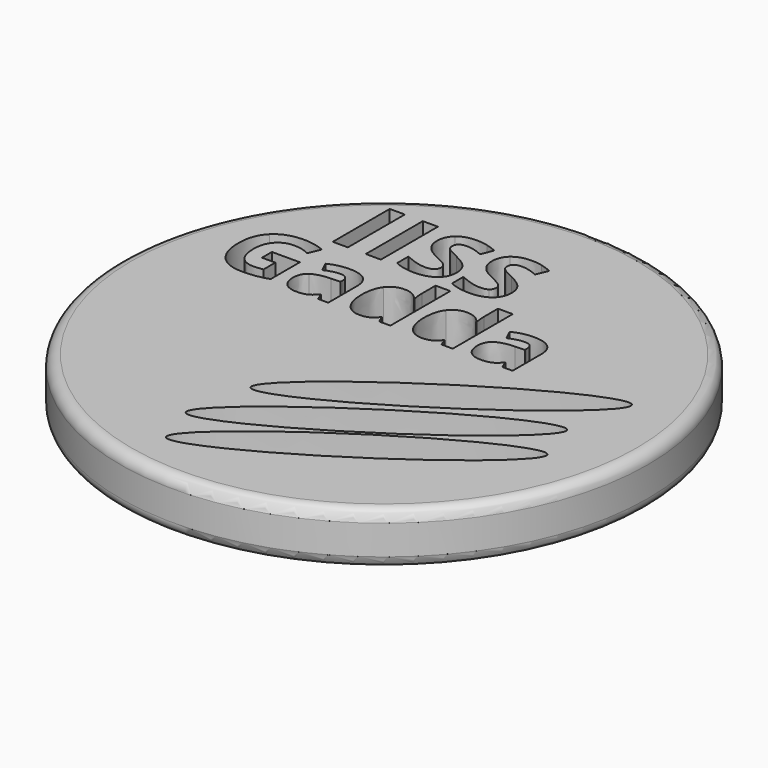
from build123d import *

# Parameters (mm, degrees)
F1_R     = 11.825
F1_W     = 0.6770305677
F1_H     = 3.1923144105
F2_DEPTH = 2.33
F3_R     = 0.5


with BuildPart() as f2:
    # F1 (on Top) → F2 (new body)
    with BuildSketch(Plane.XY):
        Circle(F1_R)
        with BuildLine():
            add(Edge.make_bspline(
                [(9.1985218048, -2.3484245142), (8.3589656473, -1.0553149177), (0.34385052, -7.1782551265), (-7.6712646073, -13.3011953353), (1.1834066774, -8.4713647229), (10.0380779622, -3.6415341106), (9.1985218048, -2.3484245142)],
                knots=[0, 0, 0, 2.0943951024, 2.0943951024, 4.1887902048, 4.1887902048, 6.2831853072, 6.2831853072, 6.2831853072], degree=2, weights=[1, 0.5, 1, 0.5, 1, 0.5, 1]))
        make_face(mode=Mode.SUBTRACT)
        with BuildLine():
            add(Edge.make_bspline(
                [(8.5690483272, -0.460004547), (7.7294921697, 0.8331050495), (-0.2856229576, -5.2898351593), (-8.3007380849, -11.4127753681), (0.5539331998, -6.5829447558), (9.4086044846, -1.7531141435), (8.5690483272, -0.460004547)],
                knots=[0, 0, 0, 2.0943951024, 2.0943951024, 4.1887902048, 4.1887902048, 6.2831853072, 6.2831853072, 6.2831853072], degree=2, weights=[1, 0.5, 1, 0.5, 1, 0.5, 1]))
        make_face(mode=Mode.SUBTRACT)
        with BuildLine():
            add(Edge.make_bspline(
                [(9.1555342024, 2.434908527), (8.315978045, 3.7280181235), (0.3008629177, -2.3949220853), (-7.7142522097, -8.5178622941), (1.1404190751, -3.6880316817), (9.9950903599, 1.1417989306), (9.1555342024, 2.434908527)],
                knots=[0, 0, 0, 2.0943951024, 2.0943951024, 4.1887902048, 4.1887902048, 6.2831853072, 6.2831853072, 6.2831853072], degree=2, weights=[1, 0.5, 1, 0.5, 1, 0.5, 1]))
        make_face(mode=Mode.SUBTRACT)
        with BuildLine():
            Line((-7.9164319059, 3.0568359855), (-7.9164319059, 3.6137316564))
            Line((-7.9164319059, 3.6137316564), (-6.6653143702, 3.6137316564))
            Line((-6.6653143702, 3.6137316564), (-6.6653143702, 1.9789288754))
            add(Edge.make_bspline(
                [(-6.6653143702, 1.9789288754), (-6.9696402573, 1.8795571572), (-7.2380819127, 1.8395324373)],
                knots=[0, 0, 0, 1, 1, 1], degree=2))
            add(Edge.make_bspline(
                [(-7.2380819127, 1.8395324373), (-7.5065235682, 1.7995077175), (-7.7866966071, 1.7995077175)],
                knots=[0, 0, 0, 1, 1, 1], degree=2))
            add(Edge.make_bspline(
                [(-7.7866966071, 1.7995077175), (-8.5002407504, 1.7995077175), (-8.8766801413, 2.2190771944)],
                knots=[0, 0, 0, 1, 1, 1], degree=2))
            add(Edge.make_bspline(
                [(-8.8766801413, 2.2190771944), (-9.2531195322, 2.6386466713), (-9.2531195322, 3.4239592778)],
                knots=[0, 0, 0, 1, 1, 1], degree=2))
            add(Edge.make_bspline(
                [(-9.2531195322, 3.4239592778), (-9.2531195322, 4.1871892803), (-8.8162980209, 4.6140046117)],
                knots=[0, 0, 0, 1, 1, 1], degree=2))
            add(Edge.make_bspline(
                [(-8.8162980209, 4.6140046117), (-8.3794765095, 5.0408199431), (-7.6058952864, 5.0408199431)],
                knots=[0, 0, 0, 1, 1, 1], degree=2))
            add(Edge.make_bspline(
                [(-7.6058952864, 5.0408199431), (-7.1200779973, 5.0408199431), (-6.6694548585, 4.8469070763)],
                knots=[0, 0, 0, 1, 1, 1], degree=2))
            Line((-6.6694548585, 4.8469070763), (-6.8916610617, 4.3120940095))
            add(Edge.make_bspline(
                [(-6.8916610617, 4.3120940095), (-7.23670175, 4.4846143536), (-7.6100357747, 4.4846143536)],
                knots=[0, 0, 0, 1, 1, 1], degree=2))
            add(Edge.make_bspline(
                [(-7.6100357747, 4.4846143536), (-8.0434068792, 4.4846143536), (-8.3042576395, 4.1934000127)],
                knots=[0, 0, 0, 1, 1, 1], degree=2))
            add(Edge.make_bspline(
                [(-8.3042576395, 4.1934000127), (-8.5651083998, 3.9021856718), (-8.5651083998, 3.4108477317)],
                knots=[0, 0, 0, 1, 1, 1], degree=2))
            add(Edge.make_bspline(
                [(-8.5651083998, 3.4108477317), (-8.5651083998, 2.8974271875), (-8.3549786207, 2.6269152879)],
                knots=[0, 0, 0, 1, 1, 1], degree=2))
            add(Edge.make_bspline(
                [(-8.3549786207, 2.6269152879), (-8.1448488415, 2.3564033883), (-7.7439115617, 2.3564033883)],
                knots=[0, 0, 0, 1, 1, 1], degree=2))
            add(Edge.make_bspline(
                [(-7.7439115617, 2.3564033883), (-7.5341268233, 2.3564033883), (-7.3188214338, 2.3991884337)],
                knots=[0, 0, 0, 1, 1, 1], degree=2))
            Line((-7.3188214338, 2.3991884337), (-7.3188214338, 3.0568359855))
            Line((-7.3188214338, 3.0568359855), (-7.9164319059, 3.0568359855))
        make_face(mode=Mode.SUBTRACT)
        with BuildLine():
            Line((-3.9767573272, 1.8429828442), (-4.4356614426, 1.8429828442))
            Line((-4.4356614426, 1.8429828442), (-4.5633264973, 2.1707714981))
            Line((-4.5633264973, 2.1707714981), (-4.5805785317, 2.1707714981))
            add(Edge.make_bspline(
                [(-4.5805785317, 2.1707714981), (-4.7461980621, 1.961676841), (-4.9221688131, 1.8805922792)],
                knots=[0, 0, 0, 1, 1, 1], degree=2))
            add(Edge.make_bspline(
                [(-4.9221688131, 1.8805922792), (-5.0981395641, 1.7995077175), (-5.3803828471, 1.7995077175)],
                knots=[0, 0, 0, 1, 1, 1], degree=2))
            add(Edge.make_bspline(
                [(-5.3803828471, 1.7995077175), (-5.7274937795, 1.7995077175), (-5.9269272973, 1.9982511539)],
                knots=[0, 0, 0, 1, 1, 1], degree=2))
            add(Edge.make_bspline(
                [(-5.9269272973, 1.9982511539), (-6.1263608151, 2.1969945904), (-6.1263608151, 2.5634278013)],
                knots=[0, 0, 0, 1, 1, 1], degree=2))
            add(Edge.make_bspline(
                [(-6.1263608151, 2.5634278013), (-6.1263608151, 2.9471130467), (-5.8579191597, 3.1292945301)],
                knots=[0, 0, 0, 1, 1, 1], degree=2))
            add(Edge.make_bspline(
                [(-5.8579191597, 3.1292945301), (-5.5894775042, 3.3114760135), (-5.048453705, 3.330798292)],
                knots=[0, 0, 0, 1, 1, 1], degree=2))
            Line((-5.048453705, 3.330798292), (-4.6295743094, 3.3439098382))
            Line((-4.6295743094, 3.3439098382), (-4.6295743094, 3.4494922888))
            add(Edge.make_bspline(
                [(-4.6295743094, 3.4494922888), (-4.6295743094, 3.8159254997), (-5.0049785783, 3.8159254997)],
                knots=[0, 0, 0, 1, 1, 1], degree=2))
            add(Edge.make_bspline(
                [(-5.0049785783, 3.8159254997), (-5.294122675, 3.8159254997), (-5.6847087342, 3.6413349115)],
                knots=[0, 0, 0, 1, 1, 1], degree=2))
            Line((-5.6847087342, 3.6413349115), (-5.9020843678, 4.0857473179))
            add(Edge.make_bspline(
                [(-5.9020843678, 4.0857473179), (-5.4859652977, 4.3038130329), (-4.9794455673, 4.3038130329)],
                knots=[0, 0, 0, 1, 1, 1], degree=2))
            add(Edge.make_bspline(
                [(-4.9794455673, 4.3038130329), (-4.4943183596, 4.3038130329), (-4.2355378434, 4.092303091)],
                knots=[0, 0, 0, 1, 1, 1], degree=2))
            add(Edge.make_bspline(
                [(-4.2355378434, 4.092303091), (-3.9767573272, 3.8807931491), (-3.9767573272, 3.4494922888)],
                knots=[0, 0, 0, 1, 1, 1], degree=2))
            Line((-3.9767573272, 3.4494922888), (-3.9767573272, 1.8429828442))
        make_face(mode=Mode.SUBTRACT)
        with BuildLine():
            add(Edge.make_bspline(
                [(-1.8519967689, 2.1555897078), (-2.0762732162, 1.7995077175), (-2.535867413, 1.7995077175)],
                knots=[0, 0, 0, 1, 1, 1], degree=2))
            add(Edge.make_bspline(
                [(-2.535867413, 1.7995077175), (-2.9602674596, 1.7995077175), (-3.2028310634, 2.1297116562)],
                knots=[0, 0, 0, 1, 1, 1], degree=2))
            add(Edge.make_bspline(
                [(-3.2028310634, 2.1297116562), (-3.4453946673, 2.4599155948), (-3.4453946673, 3.0444145208)],
                knots=[0, 0, 0, 1, 1, 1], degree=2))
            add(Edge.make_bspline(
                [(-3.4453946673, 3.0444145208), (-3.4453946673, 3.6371944232), (-3.1986905752, 3.9680884432)],
                knots=[0, 0, 0, 1, 1, 1], degree=2))
            add(Edge.make_bspline(
                [(-3.1986905752, 3.9680884432), (-2.9519864831, 4.2989824633), (-2.5186153786, 4.2989824633)],
                knots=[0, 0, 0, 1, 1, 1], degree=2))
            add(Edge.make_bspline(
                [(-2.5186153786, 4.2989824633), (-2.0631616701, 4.2989824633), (-1.8237034324, 3.9456607985)],
                knots=[0, 0, 0, 1, 1, 1], degree=2))
            Line((-1.8237034324, 3.9456607985), (-1.8023109097, 3.9456607985))
            add(Edge.make_bspline(
                [(-1.8023109097, 3.9456607985), (-1.8519967689, 4.2154826167), (-1.8519967689, 4.426647518)],
                knots=[0, 0, 0, 1, 1, 1], degree=2))
            Line((-1.8519967689, 4.426647518), (-1.8519967689, 5.1988485783))
            Line((-1.8519967689, 5.1988485783), (-1.1922789729, 5.1988485783))
            Line((-1.1922789729, 5.1988485783), (-1.1922789729, 1.8429828442))
            Line((-1.1922789729, 1.8429828442), (-1.6967284591, 1.8429828442))
            Line((-1.6967284591, 1.8429828442), (-1.8237034324, 2.1555897078))
            Line((-1.8237034324, 2.1555897078), (-1.8519967689, 2.1555897078))
        make_face(mode=Mode.SUBTRACT)
        with Locations((-6.3956749816, 7.1383528025)):
            Rectangle(F1_W, F1_H, mode=Mode.SUBTRACT)
        with Locations((-4.9151509642, 7.1383528025)):
            Rectangle(F1_W, F1_H, mode=Mode.SUBTRACT)
        with BuildLine():
            add(Edge.make_bspline(
                [(-2.054714283, 6.9559947239), (-1.8887754183, 6.7411475624), (-1.8887754183, 6.4288331519)],
                knots=[0, 0, 0, 1, 1, 1], degree=2))
            add(Edge.make_bspline(
                [(-1.8887754183, 6.4288331519), (-1.8887754183, 5.9963440689), (-2.2000417939, 5.7472610995)],
                knots=[0, 0, 0, 1, 1, 1], degree=2))
            add(Edge.make_bspline(
                [(-2.2000417939, 5.7472610995), (-2.5113081694, 5.4981781301), (-3.0653693048, 5.4981781301)],
                knots=[0, 0, 0, 1, 1, 1], degree=2))
            add(Edge.make_bspline(
                [(-3.0653693048, 5.4981781301), (-3.5768103528, 5.4981781301), (-3.9694741083, 5.691016558)],
                knots=[0, 0, 0, 1, 1, 1], degree=2))
            Line((-3.9694741083, 5.691016558), (-3.9694741083, 6.3198375187))
            add(Edge.make_bspline(
                [(-3.9694741083, 6.3198375187), (-3.6466793485, 6.1752086977), (-3.4227492175, 6.1165187414)],
                knots=[0, 0, 0, 1, 1, 1], degree=2))
            add(Edge.make_bspline(
                [(-3.4227492175, 6.1165187414), (-3.1988190865, 6.0578287851), (-3.0129675581, 6.0578287851)],
                knots=[0, 0, 0, 1, 1, 1], degree=2))
            add(Edge.make_bspline(
                [(-3.0129675581, 6.0578287851), (-2.790784152, 6.0578287851), (-2.6716575144, 6.1427196148)],
                knots=[0, 0, 0, 1, 1, 1], degree=2))
            add(Edge.make_bspline(
                [(-2.6716575144, 6.1427196148), (-2.5525308768, 6.2276104445), (-2.5525308768, 6.3959947239)],
                knots=[0, 0, 0, 1, 1, 1], degree=2))
            add(Edge.make_bspline(
                [(-2.5525308768, 6.3959947239), (-2.5525308768, 6.4896191781), (-2.6049326236, 6.5629816235)],
                knots=[0, 0, 0, 1, 1, 1], degree=2))
            add(Edge.make_bspline(
                [(-2.6049326236, 6.5629816235), (-2.6573343703, 6.6363440689), (-2.7589937589, 6.7037676497)],
                knots=[0, 0, 0, 1, 1, 1], degree=2))
            add(Edge.make_bspline(
                [(-2.7589937589, 6.7037676497), (-2.8606531476, 6.7711912305), (-3.1729675581, 6.9200121912)],
                knots=[0, 0, 0, 1, 1, 1], degree=2))
            add(Edge.make_bspline(
                [(-3.1729675581, 6.9200121912), (-3.4650199598, 7.0576541126), (-3.6113955057, 7.1841169947)],
                knots=[0, 0, 0, 1, 1, 1], degree=2))
            add(Edge.make_bspline(
                [(-3.6113955057, 7.1841169947), (-3.7577710515, 7.3105798768), (-3.8451072961, 7.4789641563)],
                knots=[0, 0, 0, 1, 1, 1], degree=2))
            add(Edge.make_bspline(
                [(-3.8451072961, 7.4789641563), (-3.9324435406, 7.6473484357), (-3.9324435406, 7.8716279117)],
                knots=[0, 0, 0, 1, 1, 1], degree=2))
            add(Edge.make_bspline(
                [(-3.9324435406, 7.8716279117), (-3.9324435406, 8.2957327152), (-3.6452819685, 8.5378287851)],
                knots=[0, 0, 0, 1, 1, 1], degree=2))
            add(Edge.make_bspline(
                [(-3.6452819685, 8.5378287851), (-3.3581203965, 8.7799248549), (-2.8515701782, 8.7799248549)],
                knots=[0, 0, 0, 1, 1, 1], degree=2))
            add(Edge.make_bspline(
                [(-2.8515701782, 8.7799248549), (-2.6028365537, 8.7799248549), (-2.3768103528, 8.7212348986)],
                knots=[0, 0, 0, 1, 1, 1], degree=2))
            add(Edge.make_bspline(
                [(-2.3768103528, 8.7212348986), (-2.150784152, 8.6625449423), (-1.9041465974, 8.555645379)],
                knots=[0, 0, 0, 1, 1, 1], degree=2))
            Line((-1.9041465974, 8.555645379), (-2.1221378637, 8.0288331519))
            add(Edge.make_bspline(
                [(-2.1221378637, 8.0288331519), (-2.3778583878, 8.1336366453), (-2.5448452873, 8.1752086977)],
                knots=[0, 0, 0, 1, 1, 1], degree=2))
            add(Edge.make_bspline(
                [(-2.5448452873, 8.1752086977), (-2.7118321869, 8.2167807501), (-2.8732295668, 8.2167807501)],
                knots=[0, 0, 0, 1, 1, 1], degree=2))
            add(Edge.make_bspline(
                [(-2.8732295668, 8.2167807501), (-3.0653693048, 8.2167807501), (-3.1680767284, 8.1273484357)],
                knots=[0, 0, 0, 1, 1, 1], degree=2))
            add(Edge.make_bspline(
                [(-3.1680767284, 8.1273484357), (-3.270784152, 8.0379161213), (-3.270784152, 7.8939859903)],
                knots=[0, 0, 0, 1, 1, 1], degree=2))
            add(Edge.make_bspline(
                [(-3.270784152, 7.8939859903), (-3.270784152, 7.8045536759), (-3.2292120996, 7.7378287851)],
                knots=[0, 0, 0, 1, 1, 1], degree=2))
            add(Edge.make_bspline(
                [(-3.2292120996, 7.7378287851), (-3.1876400471, 7.6711038942), (-3.0971596978, 7.6089204881)],
                knots=[0, 0, 0, 1, 1, 1], degree=2))
            add(Edge.make_bspline(
                [(-3.0971596978, 7.6089204881), (-3.0066793485, 7.546737082), (-2.6685134096, 7.3853397021)],
                knots=[0, 0, 0, 1, 1, 1], degree=2))
            add(Edge.make_bspline(
                [(-2.6685134096, 7.3853397021), (-2.2206531476, 7.1708418855), (-2.054714283, 6.9559947239)],
                knots=[0, 0, 0, 1, 1, 1], degree=2))
        make_face(mode=Mode.SUBTRACT)
        with BuildLine():
            add(Edge.make_bspline(
                [(0.4081678131, 6.9559947239), (0.5741066777, 6.7411475624), (0.5741066777, 6.4288331519)],
                knots=[0, 0, 0, 1, 1, 1], degree=2))
            add(Edge.make_bspline(
                [(0.5741066777, 6.4288331519), (0.5741066777, 5.9963440689), (0.2628403022, 5.7472610995)],
                knots=[0, 0, 0, 1, 1, 1], degree=2))
            add(Edge.make_bspline(
                [(0.2628403022, 5.7472610995), (-0.0484260733, 5.4981781301), (-0.6024872087, 5.4981781301)],
                knots=[0, 0, 0, 1, 1, 1], degree=2))
            add(Edge.make_bspline(
                [(-0.6024872087, 5.4981781301), (-1.1139282568, 5.4981781301), (-1.5065920122, 5.691016558)],
                knots=[0, 0, 0, 1, 1, 1], degree=2))
            Line((-1.5065920122, 5.691016558), (-1.5065920122, 6.3198375187))
            add(Edge.make_bspline(
                [(-1.5065920122, 6.3198375187), (-1.1837972524, 6.1752086977), (-0.9598671214, 6.1165187414)],
                knots=[0, 0, 0, 1, 1, 1], degree=2))
            add(Edge.make_bspline(
                [(-0.9598671214, 6.1165187414), (-0.7359369904, 6.0578287851), (-0.550085462, 6.0578287851)],
                knots=[0, 0, 0, 1, 1, 1], degree=2))
            add(Edge.make_bspline(
                [(-0.550085462, 6.0578287851), (-0.3279020559, 6.0578287851), (-0.2087754183, 6.1427196148)],
                knots=[0, 0, 0, 1, 1, 1], degree=2))
            add(Edge.make_bspline(
                [(-0.2087754183, 6.1427196148), (-0.0896487808, 6.2276104445), (-0.0896487808, 6.3959947239)],
                knots=[0, 0, 0, 1, 1, 1], degree=2))
            add(Edge.make_bspline(
                [(-0.0896487808, 6.3959947239), (-0.0896487808, 6.4896191781), (-0.1420505275, 6.5629816235)],
                knots=[0, 0, 0, 1, 1, 1], degree=2))
            add(Edge.make_bspline(
                [(-0.1420505275, 6.5629816235), (-0.1944522742, 6.6363440689), (-0.2961116629, 6.7037676497)],
                knots=[0, 0, 0, 1, 1, 1], degree=2))
            add(Edge.make_bspline(
                [(-0.2961116629, 6.7037676497), (-0.3977710515, 6.7711912305), (-0.710085462, 6.9200121912)],
                knots=[0, 0, 0, 1, 1, 1], degree=2))
            add(Edge.make_bspline(
                [(-0.710085462, 6.9200121912), (-1.0021378637, 7.0576541126), (-1.1485134096, 7.1841169947)],
                knots=[0, 0, 0, 1, 1, 1], degree=2))
            add(Edge.make_bspline(
                [(-1.1485134096, 7.1841169947), (-1.2948889554, 7.3105798768), (-1.3822252, 7.4789641563)],
                knots=[0, 0, 0, 1, 1, 1], degree=2))
            add(Edge.make_bspline(
                [(-1.3822252, 7.4789641563), (-1.4695614445, 7.6473484357), (-1.4695614445, 7.8716279117)],
                knots=[0, 0, 0, 1, 1, 1], degree=2))
            add(Edge.make_bspline(
                [(-1.4695614445, 7.8716279117), (-1.4695614445, 8.2957327152), (-1.1823998725, 8.5378287851)],
                knots=[0, 0, 0, 1, 1, 1], degree=2))
            add(Edge.make_bspline(
                [(-1.1823998725, 8.5378287851), (-0.8952383004, 8.7799248549), (-0.3886880821, 8.7799248549)],
                knots=[0, 0, 0, 1, 1, 1], degree=2))
            add(Edge.make_bspline(
                [(-0.3886880821, 8.7799248549), (-0.1399544576, 8.7799248549), (0.0860717432, 8.7212348986)],
                knots=[0, 0, 0, 1, 1, 1], degree=2))
            add(Edge.make_bspline(
                [(0.0860717432, 8.7212348986), (0.3120979441, 8.6625449423), (0.5587354987, 8.555645379)],
                knots=[0, 0, 0, 1, 1, 1], degree=2))
            Line((0.5587354987, 8.555645379), (0.3407442323, 8.0288331519))
            add(Edge.make_bspline(
                [(0.3407442323, 8.0288331519), (0.0850237083, 8.1336366453), (-0.0819631913, 8.1752086977)],
                knots=[0, 0, 0, 1, 1, 1], degree=2))
            add(Edge.make_bspline(
                [(-0.0819631913, 8.1752086977), (-0.2489500908, 8.2167807501), (-0.4103474707, 8.2167807501)],
                knots=[0, 0, 0, 1, 1, 1], degree=2))
            add(Edge.make_bspline(
                [(-0.4103474707, 8.2167807501), (-0.6024872087, 8.2167807501), (-0.7051946323, 8.1273484357)],
                knots=[0, 0, 0, 1, 1, 1], degree=2))
            add(Edge.make_bspline(
                [(-0.7051946323, 8.1273484357), (-0.8079020559, 8.0379161213), (-0.8079020559, 7.8939859903)],
                knots=[0, 0, 0, 1, 1, 1], degree=2))
            add(Edge.make_bspline(
                [(-0.8079020559, 7.8939859903), (-0.8079020559, 7.8045536759), (-0.7663300035, 7.7378287851)],
                knots=[0, 0, 0, 1, 1, 1], degree=2))
            add(Edge.make_bspline(
                [(-0.7663300035, 7.7378287851), (-0.7247579511, 7.6711038942), (-0.6342776017, 7.6089204881)],
                knots=[0, 0, 0, 1, 1, 1], degree=2))
            add(Edge.make_bspline(
                [(-0.6342776017, 7.6089204881), (-0.5437972524, 7.546737082), (-0.2056313135, 7.3853397021)],
                knots=[0, 0, 0, 1, 1, 1], degree=2))
            add(Edge.make_bspline(
                [(-0.2056313135, 7.3853397021), (0.2422289485, 7.1708418855), (0.4081678131, 6.9559947239)],
                knots=[0, 0, 0, 1, 1, 1], degree=2))
        make_face(mode=Mode.SUBTRACT)
        with BuildLine():
            add(Edge.make_bspline(
                [(0.9428328061, 2.1555897078), (0.7185563587, 1.7995077175), (0.258962162, 1.7995077175)],
                knots=[0, 0, 0, 1, 1, 1], degree=2))
            add(Edge.make_bspline(
                [(0.258962162, 1.7995077175), (-0.1654378846, 1.7995077175), (-0.4080014885, 2.1297116562)],
                knots=[0, 0, 0, 1, 1, 1], degree=2))
            add(Edge.make_bspline(
                [(-0.4080014885, 2.1297116562), (-0.6505650923, 2.4599155948), (-0.6505650923, 3.0444145208)],
                knots=[0, 0, 0, 1, 1, 1], degree=2))
            add(Edge.make_bspline(
                [(-0.6505650923, 3.0444145208), (-0.6505650923, 3.6371944232), (-0.4038610002, 3.9680884432)],
                knots=[0, 0, 0, 1, 1, 1], degree=2))
            add(Edge.make_bspline(
                [(-0.4038610002, 3.9680884432), (-0.1571569081, 4.2989824633), (0.2762141964, 4.2989824633)],
                knots=[0, 0, 0, 1, 1, 1], degree=2))
            add(Edge.make_bspline(
                [(0.2762141964, 4.2989824633), (0.7316679049, 4.2989824633), (0.9711261426, 3.9456607985)],
                knots=[0, 0, 0, 1, 1, 1], degree=2))
            Line((0.9711261426, 3.9456607985), (0.9925186652, 3.9456607985))
            add(Edge.make_bspline(
                [(0.9925186652, 3.9456607985), (0.9428328061, 4.2154826167), (0.9428328061, 4.426647518)],
                knots=[0, 0, 0, 1, 1, 1], degree=2))
            Line((0.9428328061, 4.426647518), (0.9428328061, 5.1988485783))
            Line((0.9428328061, 5.1988485783), (1.6025506021, 5.1988485783))
            Line((1.6025506021, 5.1988485783), (1.6025506021, 1.8429828442))
            Line((1.6025506021, 1.8429828442), (1.0981011158, 1.8429828442))
            Line((1.0981011158, 1.8429828442), (0.9711261426, 2.1555897078))
            Line((0.9711261426, 2.1555897078), (0.9428328061, 2.1555897078))
        make_face(mode=Mode.SUBTRACT)
        with BuildLine():
            Line((4.2807564244, 1.8429828442), (3.821852309, 1.8429828442))
            Line((3.821852309, 1.8429828442), (3.6941872544, 2.1707714981))
            Line((3.6941872544, 2.1707714981), (3.67693522, 2.1707714981))
            add(Edge.make_bspline(
                [(3.67693522, 2.1707714981), (3.5113156896, 1.961676841), (3.3353449386, 1.8805922792)],
                knots=[0, 0, 0, 1, 1, 1], degree=2))
            add(Edge.make_bspline(
                [(3.3353449386, 1.8805922792), (3.1593741876, 1.7995077175), (2.8771309046, 1.7995077175)],
                knots=[0, 0, 0, 1, 1, 1], degree=2))
            add(Edge.make_bspline(
                [(2.8771309046, 1.7995077175), (2.5300199722, 1.7995077175), (2.3305864543, 1.9982511539)],
                knots=[0, 0, 0, 1, 1, 1], degree=2))
            add(Edge.make_bspline(
                [(2.3305864543, 1.9982511539), (2.1311529365, 2.1969945904), (2.1311529365, 2.5634278013)],
                knots=[0, 0, 0, 1, 1, 1], degree=2))
            add(Edge.make_bspline(
                [(2.1311529365, 2.5634278013), (2.1311529365, 2.9471130467), (2.399594592, 3.1292945301)],
                knots=[0, 0, 0, 1, 1, 1], degree=2))
            add(Edge.make_bspline(
                [(2.399594592, 3.1292945301), (2.6680362475, 3.3114760135), (3.2090600467, 3.330798292)],
                knots=[0, 0, 0, 1, 1, 1], degree=2))
            Line((3.2090600467, 3.330798292), (3.6279394422, 3.3439098382))
            Line((3.6279394422, 3.3439098382), (3.6279394422, 3.4494922888))
            add(Edge.make_bspline(
                [(3.6279394422, 3.4494922888), (3.6279394422, 3.8159254997), (3.2525351734, 3.8159254997)],
                knots=[0, 0, 0, 1, 1, 1], degree=2))
            add(Edge.make_bspline(
                [(3.2525351734, 3.8159254997), (2.9633910766, 3.8159254997), (2.5728050175, 3.6413349115)],
                knots=[0, 0, 0, 1, 1, 1], degree=2))
            Line((2.5728050175, 3.6413349115), (2.3554293839, 4.0857473179))
            add(Edge.make_bspline(
                [(2.3554293839, 4.0857473179), (2.7715484539, 4.3038130329), (3.2780681843, 4.3038130329)],
                knots=[0, 0, 0, 1, 1, 1], degree=2))
            add(Edge.make_bspline(
                [(3.2780681843, 4.3038130329), (3.763195392, 4.3038130329), (4.0219759082, 4.092303091)],
                knots=[0, 0, 0, 1, 1, 1], degree=2))
            add(Edge.make_bspline(
                [(4.0219759082, 4.092303091), (4.2807564244, 3.8807931491), (4.2807564244, 3.4494922888)],
                knots=[0, 0, 0, 1, 1, 1], degree=2))
            Line((4.2807564244, 3.4494922888), (4.2807564244, 1.8429828442))
        make_face(mode=Mode.SUBTRACT)
    extrude(amount=F2_DEPTH)

    # F3
    f3_edges = [f2.edges().sort_by_distance(p)[0] for p in [
        (-11.825, 0, 2.33),
        (-11.825, 0, 0),
    ]]
    fillet(f3_edges, radius=F3_R)


solid = f2.part
